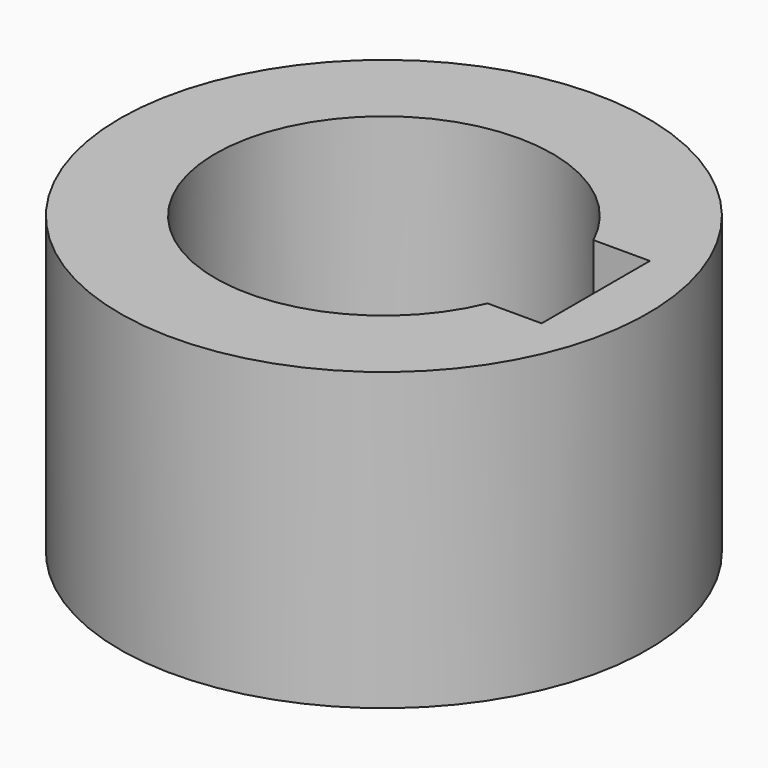
from build123d import *

# Parameters (mm, degrees)
F1_W     = 19.101374
F1_H     = 59.278082
F3_W     = 29.123306
F3_H     = 27.092062
F4_DEPTH = 76.2
F5_R     = 12.7
F6_DEPTH = 12.7


with BuildPart() as f2:
    # F1 (on Front) → F2 (revolve)
    with BuildSketch(Plane.XZ):
        with Locations((-43.324234, 6.909995)):
            Rectangle(F1_W, F1_H)
    revolve(axis=Axis((0, 0, -2.969272), (0, 0, -1)))

    # F3 (on face) → F4 (cut)
    with BuildSketch(Plane.XY.offset(36.549036)):
        with Locations((27.437061, 0.549149)):
            Rectangle(F3_W, F3_H)
    extrude(amount=-F4_DEPTH, mode=Mode.SUBTRACT)

    # F5 (on Front) → F6 (cut, symmetric)
    with BuildSketch(Plane.XZ):
        Circle(F5_R)
    extrude(amount=F6_DEPTH, both=True, mode=Mode.SUBTRACT)


solid = f2.part
